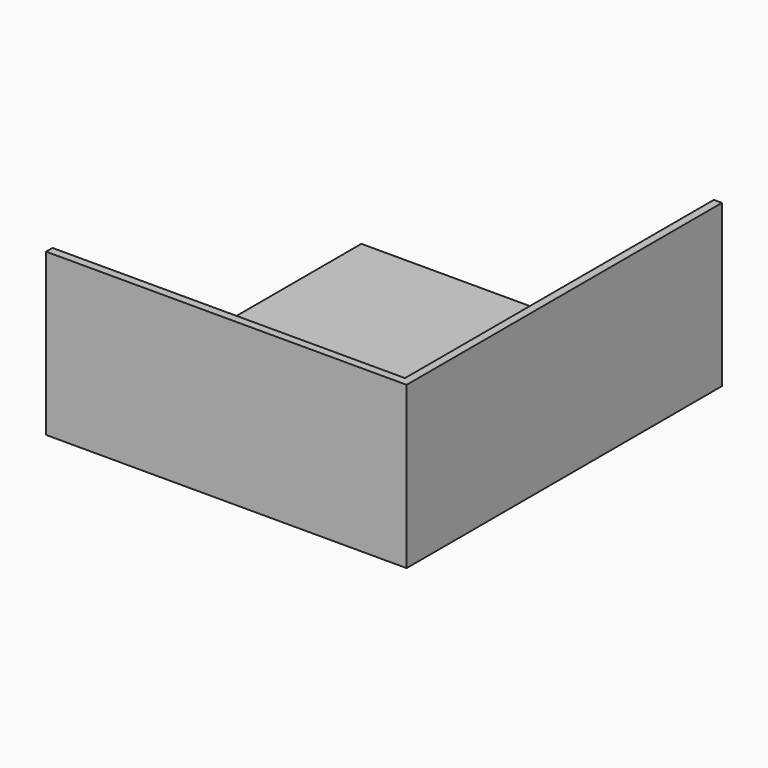
from build123d import *

# Parameters (mm, degrees)
F0_W     = 277.368
F0_H     = 303.784
F1_DEPTH = 6.35
F2_W     = 277.368
F2_H     = 127
F2_H_2   = 120.65
F3_DEPTH = 6.35
F4_W     = 310.134
F4_H     = 127
F5_DEPTH = 6.35


with BuildPart() as f1:
    # F0 (on Top) → F1 (new body)
    with BuildSketch(Plane.XY):
        with Locations((138.684, 151.892)):
            Rectangle(F0_W, F0_H)
    extrude(amount=F1_DEPTH)

    # F2 (on face) → F3 (join)
    with BuildSketch(Plane.XZ):
        with Locations((138.684, 63.5)):
            Rectangle(F2_W, F2_H)
        with Locations((138.684, 66.675)):
            Rectangle(F2_W, F2_H_2)
    extrude(amount=F3_DEPTH)

    # F4 (on face) → F5 (join)
    with BuildSketch(Plane.YZ.offset(277.368)):
        with Locations((148.717, 63.5)):
            Rectangle(F4_W, F4_H)
        Polygon((-6.35, 127), (-6.35, 0), (303.784, 0), (303.784, 6.35), (0, 6.35), (0, 127), align=None)
    extrude(amount=F5_DEPTH)


solid = f1.part
